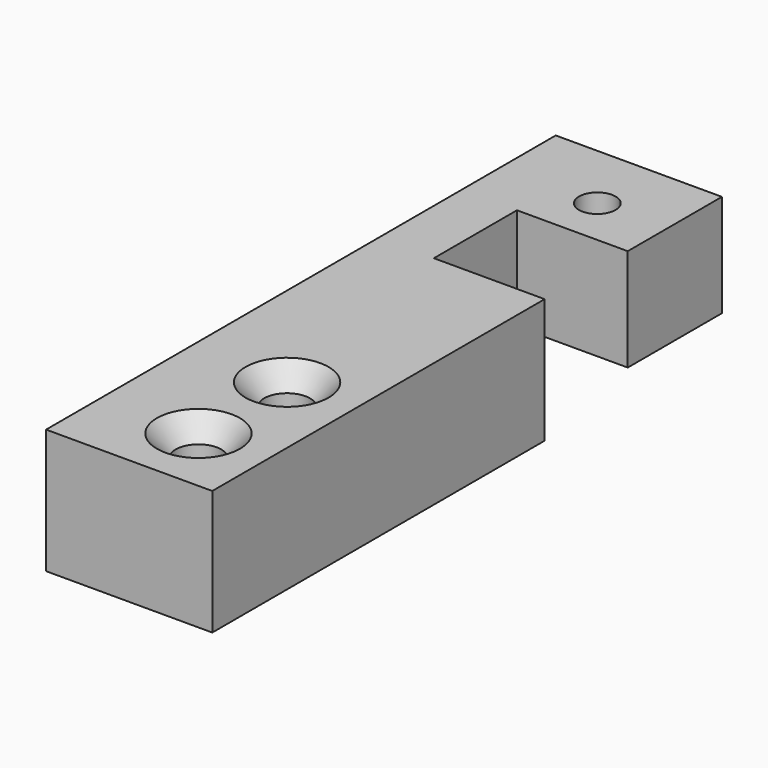
from build123d import *

# Parameters (mm, degrees)
SKETCH072_R         = 1.32
PAD047_DEPTH        = 9
POCKET023_DEPTH     = 1.6
HOLE001_D           = 3.3
HOLE001_CSINK_D     = 6
HOLE001_CSINK_ANGLE = 82


with BuildPart() as part:
    # Sketch072 → Pad047 (new body)
    with BuildSketch(Plane.XY):
        Polygon((-7, -51), (5, -51), (5, -21), (-3, -21), (-3, -13.5), (5, -13.5), (5, -5), (-7, -5), align=None)
        with Locations((0, -10)):
            Circle(SKETCH072_R, mode=Mode.SUBTRACT)
    extrude(amount=PAD047_DEPTH)

    # Sketch073 → Pocket023 (cut)
    with BuildSketch(Plane.XY):
        with BuildLine():
            Line((-6, 4), (6, 4))
            Line((6, 4), (6, -21))
            Line((6, -21), (-3, -21))
            Line((-3, -21), (-3, -8))
            ThreePointArc((-3, -8), (-3.87868, -5.87868), (-6, -5))
            Line((-6, -5), (-6, 4))
        make_face()
    extrude(amount=POCKET023_DEPTH, mode=Mode.SUBTRACT)

    # Hole001 (through all)
    with Locations(Plane.XY.offset(9)):
        with Locations((0, -38), (0, -46)):
            CounterSinkHole(HOLE001_D / 2, HOLE001_CSINK_D / 2, counter_sink_angle=HOLE001_CSINK_ANGLE)


solid = part.part
